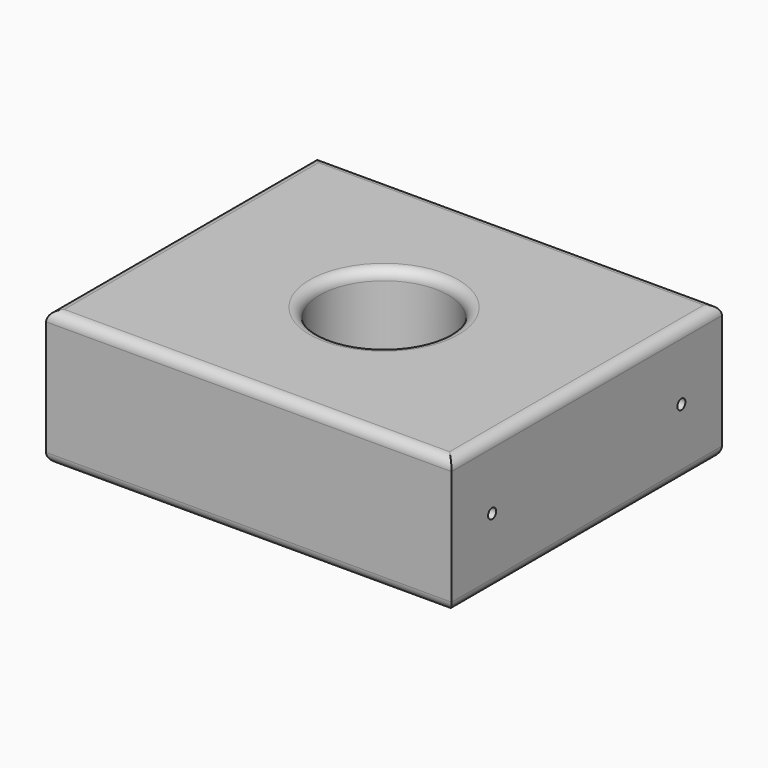
from build123d import *

# Parameters (mm, degrees)
F0_R     = 19
F1_DEPTH = 20
F2_R     = 3
F4_D     = 3
F4_DEPTH = 40
F4_TIP   = 0.9012909285
F6_D     = 3
F6_DEPTH = 40
F6_TIP   = 0.9012909285


with BuildPart() as f1:
    # F0 (on Top) → F1 (new body, symmetric)
    with BuildSketch(Plane.XY):
        Polygon((65.3352615237, 75.2357769758), (-54.6647384763, 75.2357769758), (-54.6647384763, 60.2357769758), (-54.6647384763, -9.7642230242), (-54.6647384763, -24.7642230242), (65.3352615237, -24.7642230242), align=None)
        with Locations((5.3352615237, 25.2357769758)):
            Circle(F0_R, mode=Mode.SUBTRACT)
    extrude(amount=F1_DEPTH, both=True)

    # F2
    f2_edges = [f1.edges().sort_by_distance(p)[0] for p in [
        (5.335262, 75.235777, 20),
        (-54.664738, 25.235777, 20),
        (5.335262, -24.764223, 20),
        (65.335262, 25.235777, 20),
        (-13.664738, 25.235777, 20),
        (65.335262, 25.235777, -20),
        (5.335262, 75.235777, -20),
        (-54.664738, 25.235777, -20),
        (5.335262, -24.764223, -20),
        (-13.664738, 25.235777, -20),
    ]]
    fillet(f2_edges, radius=F2_R)

    # F4
    with Locations(Plane(origin=(-54.6647384763, 0, 0), x_dir=(0, -1, 0), z_dir=(-1, 0, 0))):
        with Locations((9.7642230242, 0), (-60.2357769758, 0)):
            Hole(F4_D / 2, depth=F4_DEPTH)
            with Locations((0, 0, -(F4_DEPTH + F4_TIP / 2))):  # 118° drill point
                Cone(0, F4_D / 2, F4_TIP, mode=Mode.SUBTRACT)

    # F6
    with Locations(Plane.YZ.offset(65.3352615237)):
        with Locations((60.2357769758, 0), (-9.7642230242, 0)):
            Hole(F6_D / 2, depth=F6_DEPTH)
            with Locations((0, 0, -(F6_DEPTH + F6_TIP / 2))):  # 118° drill point
                Cone(0, F6_D / 2, F6_TIP, mode=Mode.SUBTRACT)


solid = f1.part
